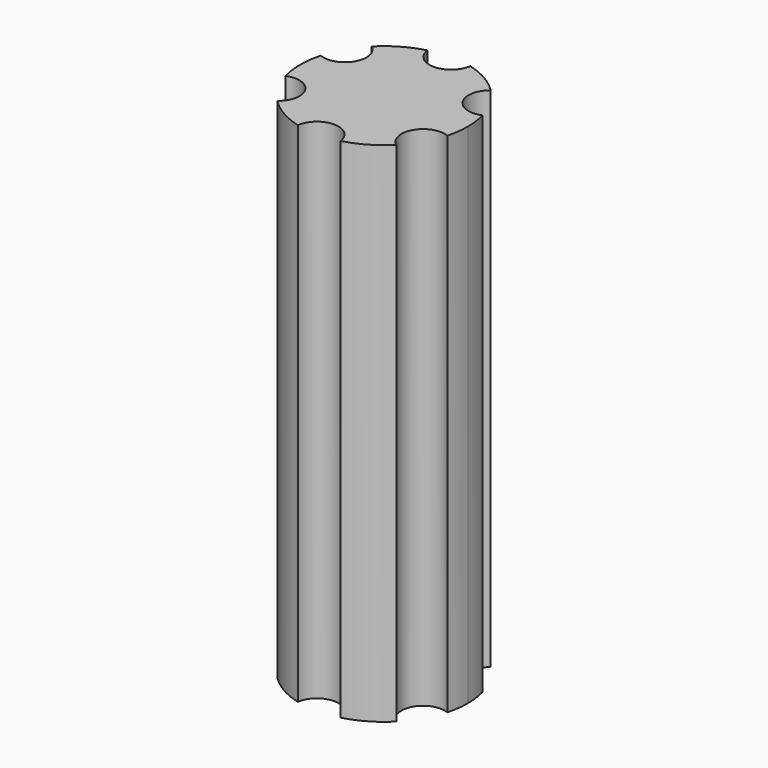
from build123d import *

# Parameters (mm, degrees)
F1_DEPTH = 1060


with BuildPart() as f1:
    # F0 (on Top) → F1 (new body)
    with BuildSketch(Plane.XY):
        with BuildLine():
            ThreePointArc((168.857126, -45.95945), (173.457483, -23.184079), (175, 0))
            ThreePointArc((175, 0), (173.457483, 23.184079), (168.857126, 45.95945))
            ThreePointArc((168.857126, 45.95945), (112.583302, 65), (124.230614, 123.254835))
            ThreePointArc((124.230614, 123.254835), (87.5, 151.554446), (44.626511, 169.214286))
            ThreePointArc((44.626511, 169.214286), (0, 130), (-44.626511, 169.214286))
            ThreePointArc((-44.626511, 169.214286), (-87.5, 151.554446), (-124.230614, 123.254835))
            ThreePointArc((-124.230614, 123.254835), (-111.21481, 107.442763), (-106.554446, 87.5))
            ThreePointArc((-106.554446, 87.5), (-126.590678, 50.059243), (-168.857126, 45.95945))
            ThreePointArc((-168.857126, 45.95945), (-175, 0), (-168.857126, -45.95945))
            ThreePointArc((-168.857126, -45.95945), (-126.590678, -50.059243), (-106.554446, -87.5))
            ThreePointArc((-106.554446, -87.5), (-111.21481, -107.442763), (-124.230614, -123.254835))
            ThreePointArc((-124.230614, -123.254835), (-87.5, -151.554446), (-44.626511, -169.214286))
            ThreePointArc((-44.626511, -169.214286), (0, -130), (44.626511, -169.214286))
            ThreePointArc((44.626511, -169.214286), (87.5, -151.554446), (124.230614, -123.254835))
            ThreePointArc((124.230614, -123.254835), (112.583302, -65), (168.857126, -45.95945))
        make_face()
    extrude(amount=F1_DEPTH)


solid = f1.part
